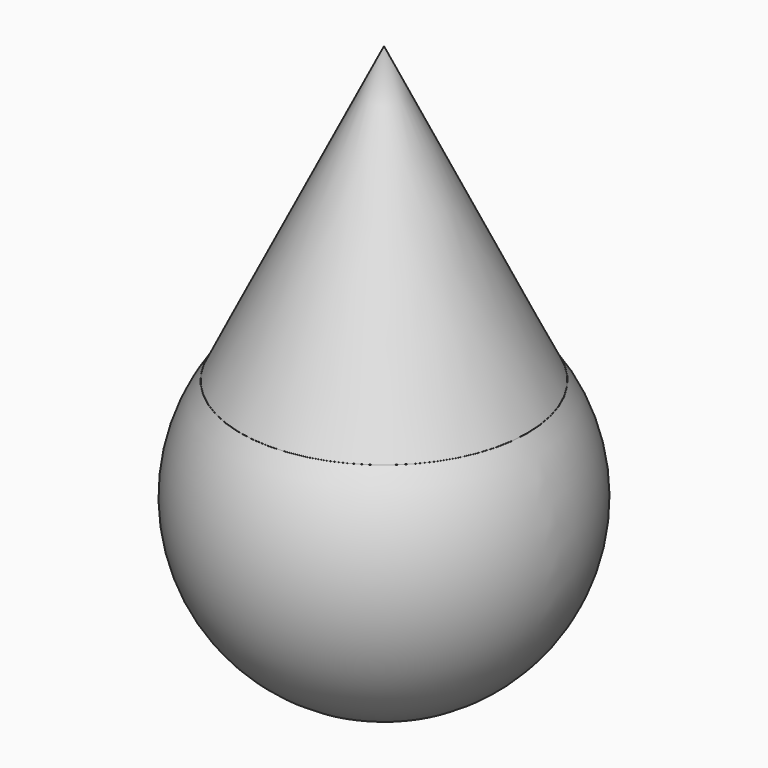
from build123d import *

# Parameters (mm, degrees)
F2_W     = 152.056925
F2_H     = 32.610714
F3_DEPTH = 63.5
F4_R     = 61.822919


with BuildPart() as f1:
    # F0 (on Front) → F1 (revolve)
    with BuildSketch(Plane.XZ):
        with BuildLine():
            Line((0, 76.043595), (0, -76.043595))
            ThreePointArc((0, -76.043595), (76.043595, 0), (0, 76.043595))
        make_face()
    revolve(axis=Axis((0, 0, 0), (0, 0, -1)))

    # F2 (on Front) → F3 (cut, symmetric)
    with BuildSketch(Plane.XZ):
        with Locations((-0.75839, 60.481496)):
            Rectangle(F2_W, F2_H)
    extrude(amount=F3_DEPTH, both=True, mode=Mode.SUBTRACT)


with BuildPart() as f8:
    # F4 (on face) → F8 section 0
    with BuildSketch(Plane.XY.offset(44.176139), mode=Mode.PRIVATE) as f8_s0:
        Circle(F4_R)
    loft([f8_s0.sketch, Vertex(0, 0, 171.176139)])


solid = Compound([f1.part, f8.part])
